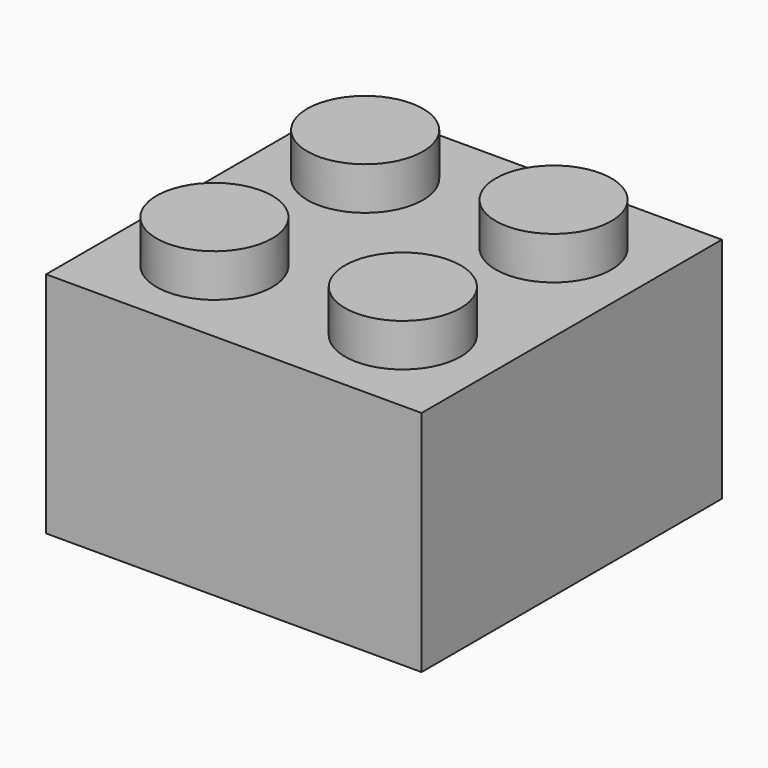
from build123d import *

# Parameters (mm, degrees)
F0_R     = 2.435
F1_DEPTH = 9.6
F2_DEPTH = 11.4
F3_T     = -1.4
F4_R     = 3.17
F4_R_2   = 2.445
F5_DEPTH = 9.5


with BuildPart() as f1:
    # F0 (on Top) → F1 (new body)
    with BuildSketch(Plane.XY):
        Polygon((7.9, 7.9), (-7.9, 7.9), (-7.9, 3.965), (-7.9, -7.9), (7.9, -7.9), align=None)
        with Locations((-3.965, -3.965)):
            Circle(F0_R, mode=Mode.SUBTRACT)
        with Locations((3.965, -3.965)):
            Circle(F0_R, mode=Mode.SUBTRACT)
        with BuildLine():
            ThreePointArc((-1.53, 3.965), (-3.965, 1.53), (-6.4, 3.965))
            ThreePointArc((-6.4, 3.965), (-3.965, 6.4), (-1.53, 3.965))
        make_face(mode=Mode.SUBTRACT)
        with BuildLine():
            ThreePointArc((6.4, 3.965), (3.965, 1.53), (1.53, 3.965))
            ThreePointArc((1.53, 3.965), (3.965, 6.4), (6.4, 3.965))
        make_face(mode=Mode.SUBTRACT)
    extrude(amount=F1_DEPTH)

    # F0 (on Top) → F2 (join)
    with BuildSketch(Plane.XY):
        with BuildLine():
            ThreePointArc((-1.53, 3.965), (-3.965, 6.4), (-6.4, 3.965))
            ThreePointArc((-6.4, 3.965), (-3.965, 1.53), (-1.53, 3.965))
        make_face()
        with BuildLine():
            ThreePointArc((6.4, 3.965), (3.965, 6.4), (1.53, 3.965))
            ThreePointArc((1.53, 3.965), (3.965, 1.53), (6.4, 3.965))
        make_face()
        with Locations((3.965, -3.965)):
            Circle(F0_R)
        with Locations((-3.965, -3.965)):
            Circle(F0_R)
    extrude(amount=F2_DEPTH)

    # F3
    f3_openings = [f1.faces().sort_by_distance(p)[0] for p in [
        (0, 0, 0),
    ]]
    offset(amount=F3_T, openings=f3_openings, kind=Kind.INTERSECTION)

    # F4 (on face) → F5 (join)
    with BuildSketch(Plane.XY):
        Circle(F4_R)
        Circle(F4_R_2, mode=Mode.SUBTRACT)
    extrude(amount=F5_DEPTH)


solid = f1.part
